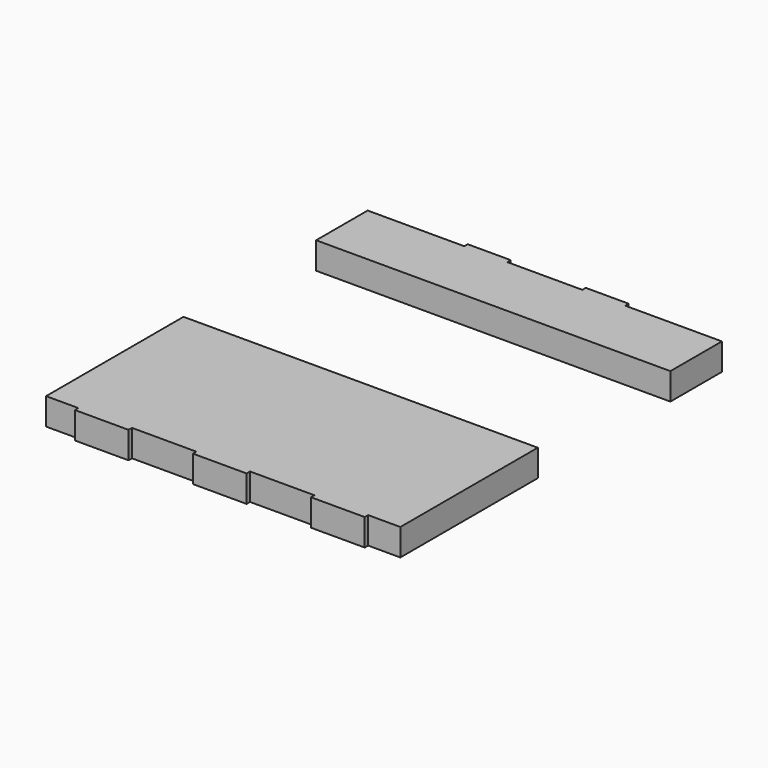
from build123d import *

# Parameters (mm, degrees)
F0_W     = 330
F0_H     = 60
F1_DEPTH = 25
F2_W     = 40
F2_H     = 25
F3_DEPTH = 4
F4_W     = 330
F4_H     = 160
F5_DEPTH = 25
F6_W     = 50
F6_H     = 25
F7_DEPTH = 4


with BuildPart() as f1:
    # F0 (on Top) → F1 (new body)
    with BuildSketch(Plane.XY):
        Rectangle(F0_W, F0_H)
    extrude(amount=F1_DEPTH)

    # F2 (on face) → F3 (join)
    with BuildSketch(Plane(origin=(0, 30, 0), x_dir=(-1, 0, 0), z_dir=(0, 1, 0))):
        with Locations((-55, 12.5)):
            Rectangle(F2_W, F2_H)
        with Locations((55, 12.5)):
            Rectangle(F2_W, F2_H)
    extrude(amount=F3_DEPTH)


with BuildPart() as f5:
    # F4 (on Top) → F5 (new body)
    with BuildSketch(Plane.XY):
        with Locations((0, -264.422387)):
            Rectangle(F4_W, F4_H)
    extrude(amount=F5_DEPTH)

    # F6 (on face) → F7 (join)
    with BuildSketch(Plane.XZ.offset(344.422387)):
        with Locations((-110, 12.5)):
            Rectangle(F6_W, F6_H)
        with Locations((110, 12.5)):
            Rectangle(F6_W, F6_H)
        with Locations((0, 12.5)):
            Rectangle(F6_W, F6_H)
    extrude(amount=F7_DEPTH)


solid = Compound([f1.part, f5.part])
